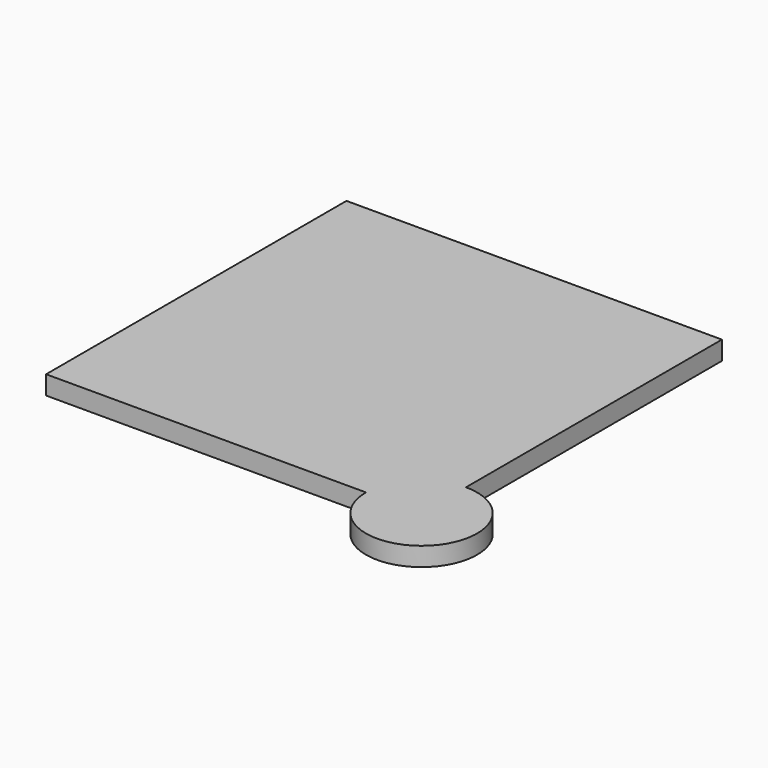
from build123d import *

# Parameters (mm, degrees)
F1_DEPTH = 0.5


with BuildPart() as f1:
    # F0 (on Top) → F1 (new body)
    with BuildSketch(Plane.XY):
        Polygon((0, 10), (-10, 10), (-10, 0), (-1.480661, 0), (0, 0), (0, 1.480661), align=None)
        with BuildLine():
            ThreePointArc((-1.480661, 0), (1.046985, -1.046985), (0, 1.480661))
            Line((0, 1.480661), (0, 0))
            Line((0, 0), (-1.480661, 0))
        make_face()
    extrude(amount=F1_DEPTH)


solid = f1.part
